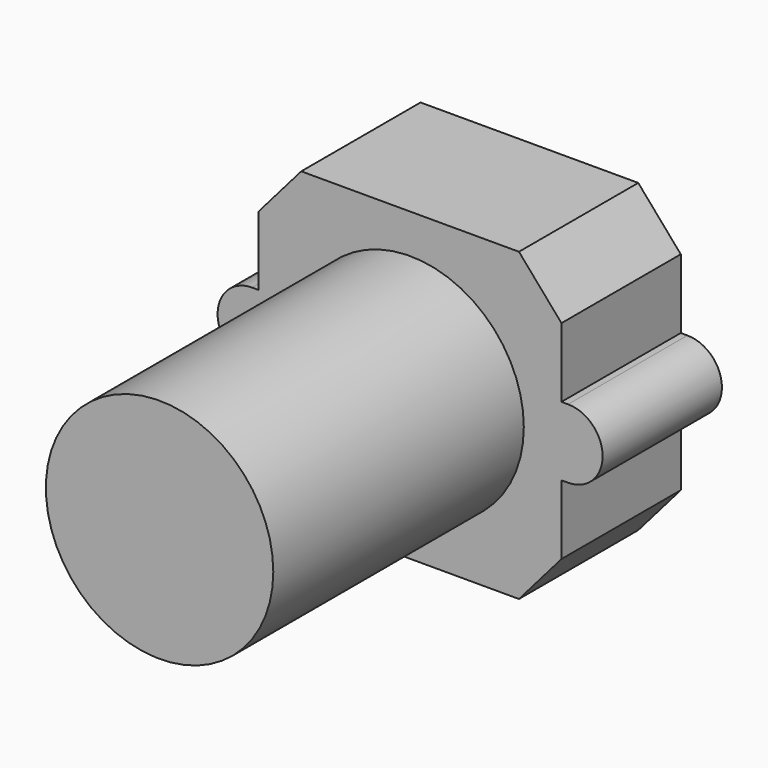
from build123d import *

# Parameters (mm, degrees)
F1_DEPTH = 10
F2_R     = 7.625
F3_DEPTH = 21


with BuildPart() as f1:
    # F0 (on Front) → F1 (new body)
    with BuildSketch(Plane.XZ):
        Polygon((-7.3, 10.25), (-10.15, 6.963665), (-10.15, 2.315), (-10.15, -2.315), (-10.15, -6.963665), (-7.3, -10.25), (7.3, -10.25), (10.15, -6.963665), (10.15, -2.315), (10.15, 2.315), (10.15, 6.963665), (7.3, 10.25), align=None)
        with BuildLine():
            Line((-10.15, -2.315), (-10.15, 2.315))
            Line((-10.15, 2.315), (-10.595, 2.315))
            ThreePointArc((-10.595, 2.315), (-12.91, 0), (-10.595, -2.315))
            Line((-10.595, -2.315), (-10.15, -2.315))
        make_face()
        with BuildLine():
            Line((10.595, 2.315), (10.15, 2.315))
            Line((10.15, 2.315), (10.15, -2.315))
            Line((10.15, -2.315), (10.595, -2.315))
            ThreePointArc((10.595, -2.315), (12.91, 0), (10.595, 2.315))
        make_face()
    extrude(amount=F1_DEPTH)

    # F2 (on face) → F3 (join)
    with BuildSketch(Plane.XZ.offset(10)):
        Circle(F2_R)
    extrude(amount=F3_DEPTH)


solid = f1.part
